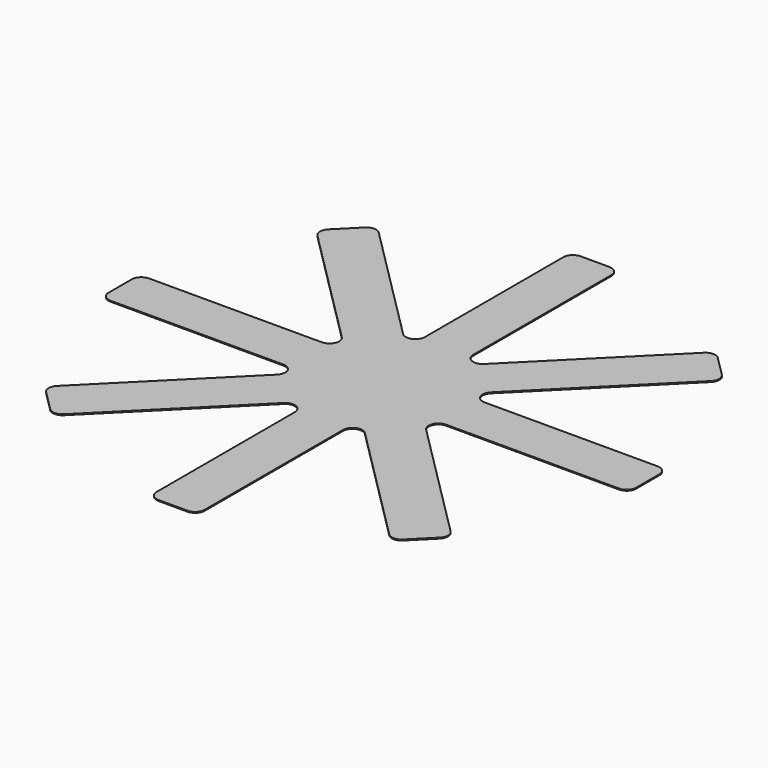
from build123d import *

# Parameters (mm, degrees)
F0_R     = 64
F1_DEPTH = 1
F2_W     = 50
F2_H     = 214.946085466
F3_DEPTH = 1
F4_R     = 10
F5_COUNT = 8
F6_R     = 10


with BuildPart() as f1:
    # F0 (on Top) → F1 (new body)
    with BuildSketch(Plane.XY):
        Circle(F0_R)
    extrude(amount=F1_DEPTH)

    # F2 (on Top) → F3 (join)
    with BuildSketch(Plane.XY):
        with Locations((0, 166.3882360196)):
            Rectangle(F2_W, F2_H)
    extrude(amount=F3_DEPTH)

    # F4
    f4_edges = [f1.edges().sort_by_distance(p)[0] for p in [
        (-25, 273.861279, 0.5),
        (25, 273.861279, 0.5),
    ]]
    fillet(f4_edges, radius=F4_R)

    # F5: F1 ×8 about axis
    f5_axis = Axis((0, 0, 0), (0, 0, 1))


with BuildPart() as f1_1:
    add(f1.part)
    for i in range(1, F5_COUNT):
        add(f1.part.rotate(f5_axis, i * 360 / F5_COUNT))

    # F6
    f6_edges = [f1_1.edges().sort_by_distance(p)[0] for p in [
        (25, -60.355339, 0.5),
        (25, 60.355339, 0.5),
        (-25, 60.355339, 0.5),
        (-25, -60.355339, 0.5),
        (60.355339, -25, 0.5),
        (60.355339, 25, 0.5),
        (-60.355339, -25, 0.5),
        (-60.355339, 25, 0.5),
    ]]
    fillet(f6_edges, radius=F6_R)


solid = f1_1.part
